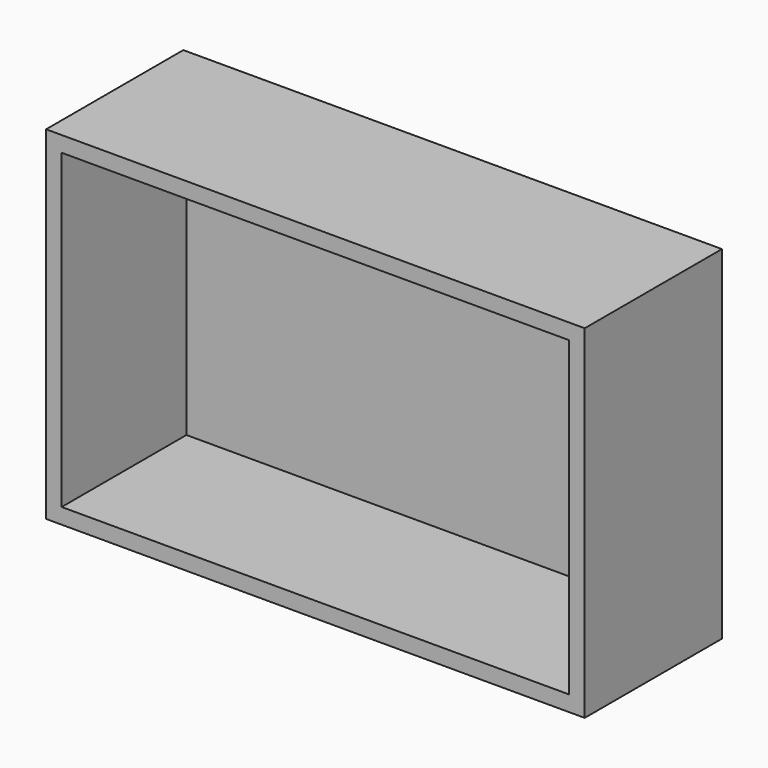
from build123d import *

# Parameters (mm, degrees)
F0_W     = 81.3596632027
F0_H     = 50
F1_DEPTH = 25
F2_T     = 2.5


with BuildPart() as f1:
    # F0 (on Front) → F1 (new body)
    with BuildSketch(Plane.XZ):
        with Locations((40.6798316013, 25)):
            Rectangle(F0_W, F0_H)
    extrude(amount=F1_DEPTH)

    # F2
    f2_openings = [f1.faces().sort_by_distance(p)[0] for p in [
        (40.679832, -25, 25),
    ]]
    offset(amount=F2_T, openings=f2_openings, kind=Kind.INTERSECTION)


solid = f1.part
